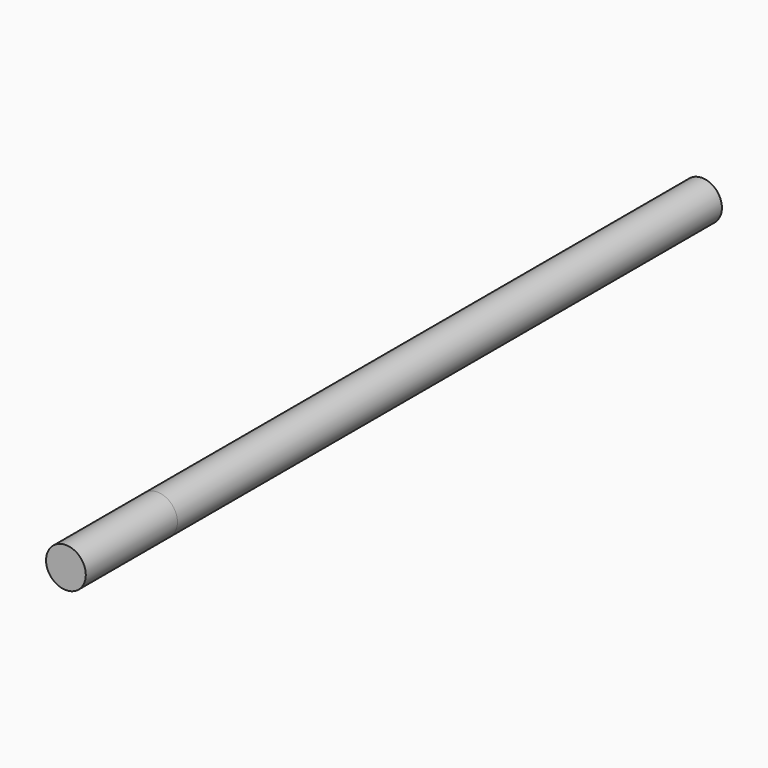
from build123d import *

# Parameters (mm, degrees)
SKETCH_R     = 12.5
PAD_DEPTH    = 500
SKETCH001_R  = 12.5
PAD001_DEPTH = 428


with BuildPart() as linear_shaft_25x500:
    # Sketch → Pad (new body)
    with BuildSketch(Plane.XZ):
        Circle(SKETCH_R)
    extrude(amount=PAD_DEPTH)


with BuildPart() as linear_shaft_25x428:
    # Sketch001 → Pad001 (new body)
    with BuildSketch(Plane.XZ):
        Circle(SKETCH001_R)
    extrude(amount=PAD001_DEPTH)


solid = Compound([linear_shaft_25x500.part, linear_shaft_25x428.part])
